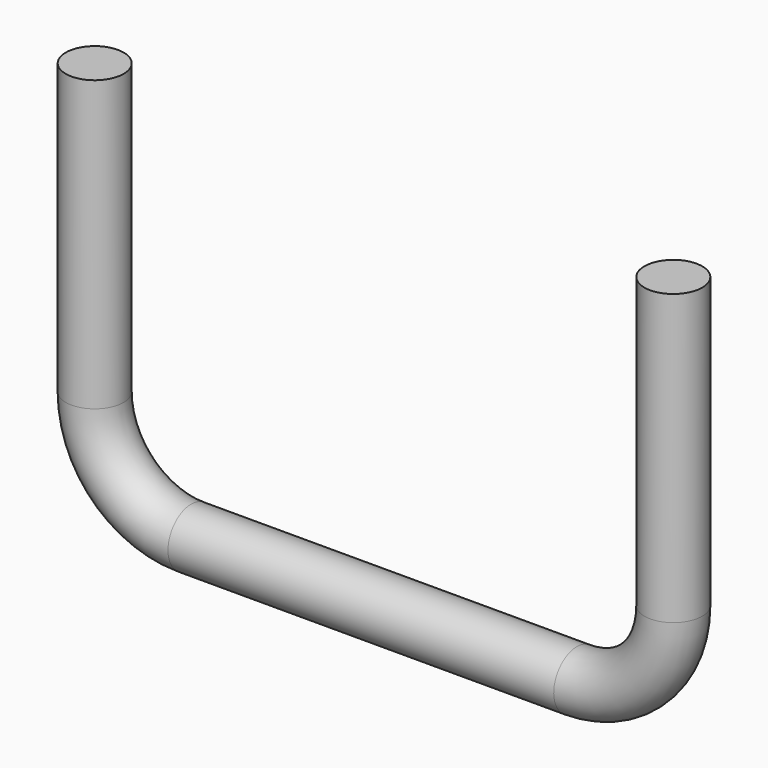
from build123d import *

# Parameters (mm, degrees)
F1_R = 1.905


with BuildPart() as f2:
    # F2: sweep along a path in F0
    with BuildLine(Plane.XZ) as f2_path:
        Line((-19.05, 0), (-19.05, -19.05))
        ThreePointArc((-19.05, -19.05), (-17.1901280605, -23.5401280605), (-12.7, -25.4))
        Line((-12.7, -25.4), (12.7, -25.4))
        ThreePointArc((12.7, -25.4), (17.1901280605, -23.5401280605), (19.05, -19.05))
        Line((19.05, -19.05), (19.05, 0))
    # F1 (on Top) → F2 (sweep)
    with BuildSketch(Plane.XY):
        with Locations((-19.05, 0)):
            Circle(F1_R)
    sweep(path=f2_path.line)


solid = f2.part
